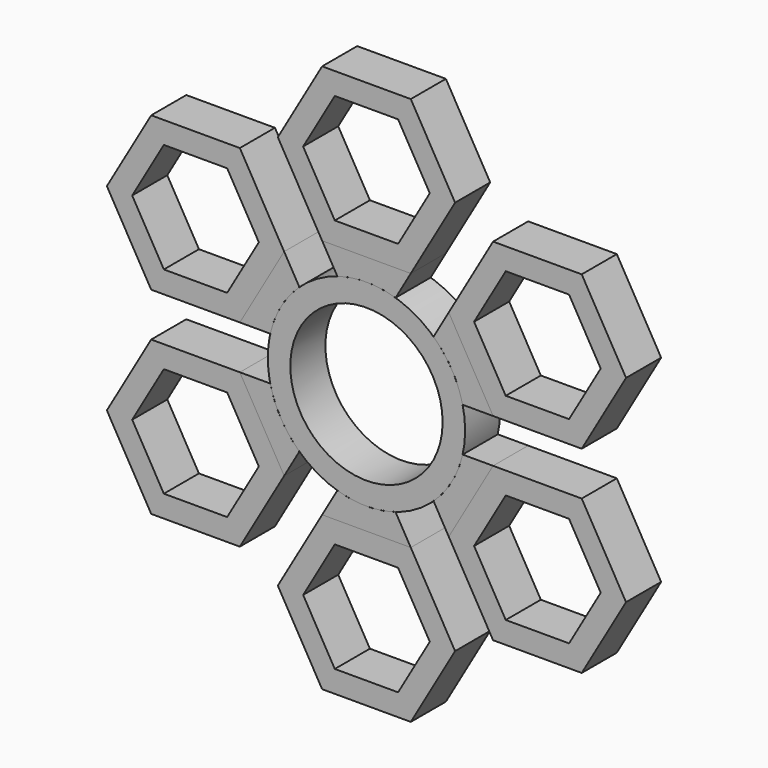
from build123d import *

# Parameters (mm, degrees)
F0_R     = 14.2875
F0_R_2   = 11.0236
F2_DEPTH = 6.35


with BuildPart() as f2:
    # F0 (on Front) → F2 (new body)
    with BuildSketch(Plane.XZ):
        Circle(F0_R)
        Circle(F0_R_2, mode=Mode.SUBTRACT)
    extrude(amount=F2_DEPTH)


with BuildPart() as f2b:
    # F0 (on Front) → F2, piece 2 (new body)
    with BuildSketch(Plane.XZ):
        Polygon((-6.4158048664, 17.4625), (6.4158048664, 17.4625), (12.8316097327, 28.575), (6.4158048664, 39.6875), (-6.4158048664, 39.6875), (-12.8316097327, 28.575), align=None)
        Polygon((9.1654355234, 28.575), (4.5827177617, 20.6375), (-4.5827177617, 20.6375), (-9.1654355234, 28.575), (-4.5827177617, 36.5125), (4.5827177617, 36.5125), align=None, mode=Mode.SUBTRACT)
    extrude(amount=F2_DEPTH)


with BuildPart() as f2c:
    # F0 (on Front) → F2, piece 3 (new body)
    with BuildSketch(Plane.XZ):
        Polygon((-11.9150661804, 14.2875), (-18.3308710468, 25.4), (-31.1624807795, 25.4), (-37.5782856459, 14.2875), (-31.1624807795, 3.175), (-18.3308710468, 3.175), align=None)
        Polygon((-20.1639581514, 22.225), (-15.5812403898, 14.2875), (-20.1639581514, 6.35), (-29.3293936748, 6.35), (-33.9121114365, 14.2875), (-29.3293936748, 22.225), align=None, mode=Mode.SUBTRACT)
    extrude(amount=F2_DEPTH)


with BuildPart() as f2d:
    # F0 (on Front) → F2, piece 4 (new body)
    with BuildSketch(Plane.XZ):
        Polygon((-18.3308710468, -3.175), (-31.1624807795, -3.175), (-37.5782856459, -14.2875), (-31.1624807795, -25.4), (-18.3308710468, -25.4), (-11.9150661804, -14.2875), align=None)
        Polygon((-29.3293936748, -6.35), (-20.1639581514, -6.35), (-15.5812403898, -14.2875), (-20.1639581514, -22.225), (-29.3293936748, -22.225), (-33.9121114365, -14.2875), align=None, mode=Mode.SUBTRACT)
    extrude(amount=F2_DEPTH)


with BuildPart() as f2e:
    # F0 (on Front) → F2, piece 5 (new body)
    with BuildSketch(Plane.XZ):
        Polygon((-6.4158048664, -17.4625), (-12.8316097327, -28.575), (-6.4158048664, -39.6875), (6.4158048664, -39.6875), (12.8316097327, -28.575), (6.4158048664, -17.4625), align=None)
        Polygon((-9.1654355234, -28.575), (-4.5827177617, -20.6375), (4.5827177617, -20.6375), (9.1654355234, -28.575), (4.5827177617, -36.5125), (-4.5827177617, -36.5125), align=None, mode=Mode.SUBTRACT)
    extrude(amount=F2_DEPTH)


with BuildPart() as f2f:
    # F0 (on Front) → F2, piece 6 (new body)
    with BuildSketch(Plane.XZ):
        Polygon((11.9150661804, -14.2875), (18.3308710468, -25.4), (31.1624807795, -25.4), (37.5782856459, -14.2875), (31.1624807795, -3.175), (18.3308710468, -3.175), align=None)
        Polygon((20.1639581514, -22.225), (15.5812403898, -14.2875), (20.1639581514, -6.35), (29.3293936748, -6.35), (33.9121114365, -14.2875), (29.3293936748, -22.225), align=None, mode=Mode.SUBTRACT)
    extrude(amount=F2_DEPTH)


with BuildPart() as f2g:
    # F0 (on Front) → F2, piece 7 (new body)
    with BuildSketch(Plane.XZ):
        Polygon((18.3308710468, 3.175), (31.1624807795, 3.175), (37.5782856459, 14.2875), (31.1624807795, 25.4), (18.3308710468, 25.4), (11.9150661804, 14.2875), align=None)
        Polygon((29.3293936748, 6.35), (20.1639581514, 6.35), (15.5812403898, 14.2875), (20.1639581514, 22.225), (29.3293936748, 22.225), (33.9121114365, 14.2875), align=None, mode=Mode.SUBTRACT)
    extrude(amount=F2_DEPTH)


with BuildPart() as f2h:
    # F1 (on Front) → F2, piece 8 (new body)
    with BuildSketch(Plane.XZ):
        with BuildLine():
            Line((-18.3308710468, 3.175), (-13.930255965, 3.175))
            ThreePointArc((-13.930255965, 3.175), (-12.3733379566, 7.14375), (-9.7147586395, 10.4764555469))
            Line((-9.7147586395, 10.4764555469), (-11.9150661804, 14.2875))
            Line((-11.9150661804, 14.2875), (-15.1229686921, 8.731249864))
            Line((-15.1229686921, 8.731249864), (-18.3308710468, 3.175))
        make_face()
    extrude(amount=F2_DEPTH)


with BuildPart() as f2i:
    # F1 (on Front) → F2, piece 9 (new body)
    with BuildSketch(Plane.XZ):
        with BuildLine():
            Line((-15.1229686619, -8.7312499162), (-11.9150661804, -14.2875))
            Line((-11.9150661804, -14.2875), (-9.7147586395, -10.4764555469))
            ThreePointArc((-9.7147586395, -10.4764555469), (-12.3733379566, -7.14375), (-13.930255965, -3.175))
            Line((-13.930255965, -3.175), (-18.3308710468, -3.175))
            Line((-18.3308710468, -3.175), (-15.1229686619, -8.7312499162))
        make_face()
    extrude(amount=F2_DEPTH)


with BuildPart() as f2j:
    # F1 (on Front) → F2, piece 10 (new body)
    with BuildSketch(Plane.XZ):
        with BuildLine():
            ThreePointArc((4.2154973255, -13.6514555469), (0, -14.2875), (-4.2154973255, -13.6514555469))
            Line((-4.2154973255, -13.6514555469), (-6.4158048664, -17.4625))
            Line((-6.4158048664, -17.4625), (0, -17.4625))
            Line((0, -17.4625), (6.4158048664, -17.4625))
            Line((6.4158048664, -17.4625), (4.2154973255, -13.6514555469))
        make_face()
    extrude(amount=F2_DEPTH)


with BuildPart() as f2k:
    # F1 (on Front) → F2, piece 11 (new body)
    with BuildSketch(Plane.XZ):
        with BuildLine():
            ThreePointArc((13.930255965, -3.175), (12.3733379566, -7.14375), (9.7147586395, -10.4764555469))
            Line((9.7147586395, -10.4764555469), (11.9150661804, -14.2875))
            Line((11.9150661804, -14.2875), (15.1229686921, -8.731249864))
            Line((15.1229686921, -8.731249864), (18.3308710468, -3.175))
            Line((18.3308710468, -3.175), (13.930255965, -3.175))
        make_face()
    extrude(amount=F2_DEPTH)


with BuildPart() as f2l:
    # F1 (on Front) → F2, piece 12 (new body)
    with BuildSketch(Plane.XZ):
        with BuildLine():
            Line((11.9150661804, 14.2875), (9.7147586395, 10.4764555469))
            ThreePointArc((9.7147586395, 10.4764555469), (12.3733379566, 7.14375), (13.930255965, 3.175))
            Line((13.930255965, 3.175), (18.3308710468, 3.175))
            Line((18.3308710468, 3.175), (15.1229686901, 8.7312498675))
            Line((15.1229686901, 8.7312498675), (11.9150661804, 14.2875))
        make_face()
    extrude(amount=F2_DEPTH)


with BuildPart() as f2m:
    # F1 (on Front) → F2, piece 13 (new body)
    with BuildSketch(Plane.XZ):
        with BuildLine():
            Line((-6.4158048664, 17.4625), (-4.2154973255, 13.6514555469))
            ThreePointArc((-4.2154973255, 13.6514555469), (0, 14.2875), (4.2154973255, 13.6514555469))
            Line((4.2154973255, 13.6514555469), (6.4158048664, 17.4625))
            Line((6.4158048664, 17.4625), (0, 17.4625))
            Line((0, 17.4625), (-6.4158048664, 17.4625))
        make_face()
    extrude(amount=F2_DEPTH)


solid = Compound([f2.part, f2b.part, f2c.part, f2d.part, f2e.part, f2f.part, f2g.part, f2h.part, f2i.part, f2j.part, f2k.part, f2l.part, f2m.part])
